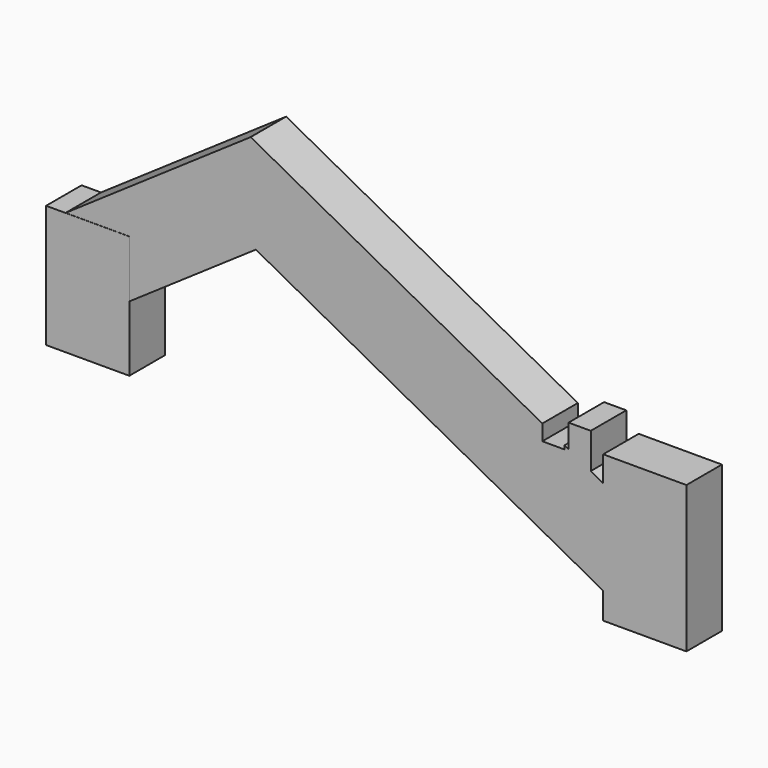
from build123d import *

# Parameters (mm, degrees)
F4_W      = 8
F4_H      = 15
F5_DEPTH  = 41.9
F6_W      = 8
F6_H      = 15
F7_DEPTH  = 84.2
F8_DEPTH  = 4.9
F9_W      = 15
F9_H      = 8
F10_DEPTH = 15.3
F11_DEPTH = 6.8
F12_W     = 15
F12_H     = 8
F13_DEPTH = 26.4
F14_W     = 4
F14_H     = 8
F15_DEPTH = 1.5
F16_W     = 4
F16_H     = 8
F17_DEPTH = 5
F18_DEPTH = 3


with BuildPart() as f5:
    # F4 (on face) → F5 (new body)
    with BuildSketch(Plane(origin=(-0.447452, 0, -0.306762), x_dir=(0, 1, 0), z_dir=(0.824783, 0, 0.56545))):
        Rectangle(F4_W, F4_H)
    extrude(amount=F5_DEPTH)

    # F6 (on face) → F7 (join)
    with BuildSketch(Plane(origin=(15.159437, 0, -8.175749), x_dir=(0, -1, 0), z_dir=(-0.880156, 0, 0.474684))):
        with Locations((0, 32.858156)):
            Rectangle(F6_W, F6_H)
    extrude(amount=-F7_DEPTH)

    # F6 (on face) → F8 (join)
    with BuildSketch(Plane(origin=(15.159437, 0, -8.175749), x_dir=(0, -1, 0), z_dir=(-0.880156, 0, 0.474684))):
        with Locations((0, 32.858156)):
            Rectangle(F6_W, F6_H)
    extrude(amount=F8_DEPTH)

    # F9 (on Top) → F10 (join)
    with BuildSketch(Plane.XY):
        with Locations((0.658734, -0.029655)):
            Rectangle(F9_W, F9_H)
    extrude(amount=-F10_DEPTH)

    # F9 (on Top) → F11 (join)
    with BuildSketch(Plane.XY):
        with Locations((0.658734, -0.029655)):
            Rectangle(F9_W, F9_H)
    extrude(amount=F11_DEPTH)

    # F12 (on Top) → F13 (join)
    with BuildSketch(Plane.XY):
        with Locations((101.044647, 0)):
            Rectangle(F12_W, F12_H)
    extrude(amount=-F13_DEPTH)

    # F14 (on Top) → F15 (cut, symmetric)
    with BuildSketch(Plane.XY):
        with Locations((84.574081, 0)):
            Rectangle(F14_W, F14_H)
    extrude(amount=F15_DEPTH, both=True, mode=Mode.SUBTRACT)

    # F16 (on Top) → F17 (join)
    with BuildSketch(Plane.XY):
        with Locations((89.305073, 0)):
            Rectangle(F16_W, F16_H)
    extrude(amount=-F17_DEPTH)

    # F16 (on Top) → F18 (join)
    with BuildSketch(Plane.XY):
        with Locations((89.305073, 0)):
            Rectangle(F16_W, F16_H)
    extrude(amount=F18_DEPTH)


solid = f5.part
